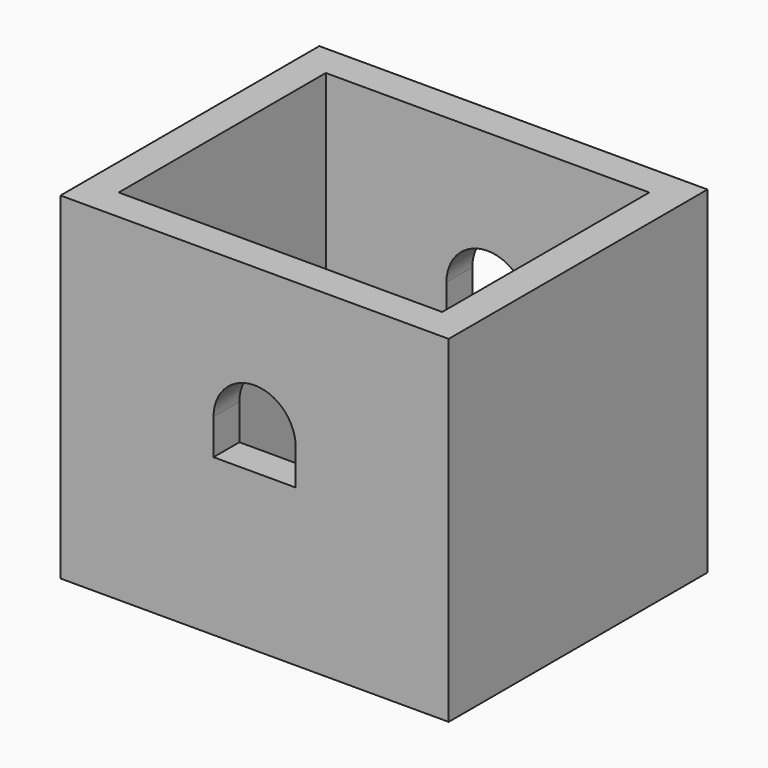
from build123d import *

# Parameters (mm, degrees)
F0_W     = 30.48
F0_H     = 25.4
F0_W_2   = 25.4
F0_H_2   = 20.32
F1_DEPTH = 44.45
F2_W     = 25.4
F2_H     = 20.32
F2_W_2   = 20.32
F2_H_2   = 15.24
F2_R     = 2.159
F3_DEPTH = 25.4
F4_R     = 2.159
F5_DEPTH = 5.08
F6_R     = 3.429
F6_W     = 8.128
F6_H     = 3.048
F7_DEPTH = 25.4
F8_W     = 54.200325
F8_H     = 68.948708
F9_DEPTH = 12.7


with BuildPart() as f1:
    # F0 (on Top) → F1 (new body, symmetric)
    with BuildSketch(Plane.XY):
        Rectangle(F0_W, F0_H)
        Rectangle(F0_W_2, F0_H_2, mode=Mode.SUBTRACT)
    extrude(amount=F1_DEPTH, both=True)

    # F2 (on face) → F3 (join)
    with BuildSketch(Plane.XY.offset(44.45)):
        Rectangle(F2_W, F2_H)
        Rectangle(F2_W_2, F2_H_2, mode=Mode.SUBTRACT)
        Rectangle(F2_W_2, F2_H_2)
        with Locations((-6.35, 0)):
            Circle(F2_R, mode=Mode.SUBTRACT)
        with Locations((6.35, 0)):
            Circle(F2_R, mode=Mode.SUBTRACT)
    extrude(amount=-F3_DEPTH)

    # F4 (on face) → F5 (cut)
    with BuildSketch(Plane(origin=(0, 0, 19.05), x_dir=(1, 0, 0), z_dir=(0, 0, -1))):
        with Locations((6.35, 0)):
            Circle(F4_R)
        with Locations((-6.35, 0)):
            Circle(F4_R)
    extrude(amount=-F5_DEPTH, mode=Mode.SUBTRACT)

    # F6 (on face) → F7 (cut)
    with BuildSketch(Plane.XZ.offset(12.7)):
        with Locations((0, 8.001)):
            Circle(F6_R)
        with Locations((0, -8.4074)):
            Rectangle(F6_W, F6_H)
        with BuildLine():
            Line((-3.2258, -29.3624), (-3.2258, -32.1564))
            Line((-3.2258, -32.1564), (3.2258, -32.1564))
            Line((3.2258, -32.1564), (3.2258, -29.3624))
            ThreePointArc((3.2258, -29.3624), (0, -26.1366), (-3.2258, -29.3624))
        make_face()
    extrude(amount=-F7_DEPTH, mode=Mode.SUBTRACT)

    # F8 (on Front) → F9 (cut, symmetric)
    with BuildSketch(Plane.XZ):
        with Locations((2.120081, 16.499758)):
            Rectangle(F8_W, F8_H)
    extrude(amount=F9_DEPTH, both=True, mode=Mode.SUBTRACT)


solid = f1.part
